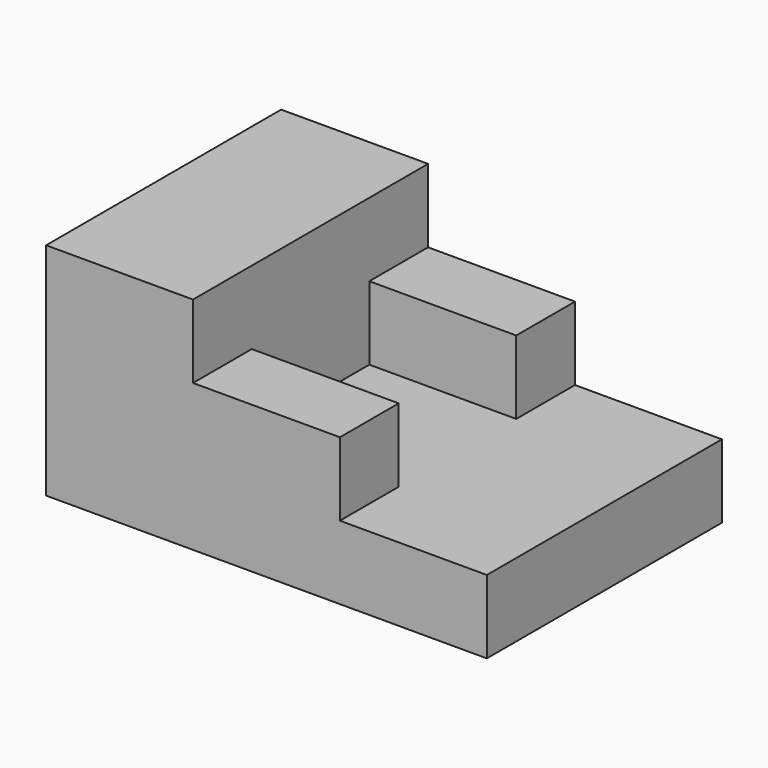
from build123d import *

# Parameters (mm, degrees)
F0_W     = 60
F0_H     = 40
F1_DEPTH = 10
F2_W     = 20
F2_H     = 40
F3_DEPTH = 20
F4_W     = 20
F4_H     = 10
F5_DEPTH = 10
F6_W     = 20
F6_H     = 10
F7_DEPTH = 10


with BuildPart() as f1:
    # F0 (on Top) → F1 (new body)
    with BuildSketch(Plane.XY):
        Rectangle(F0_W, F0_H)
    extrude(amount=F1_DEPTH)

    # F2 (on face) → F3 (join)
    with BuildSketch(Plane.XY.offset(10)):
        with Locations((-20, 0)):
            Rectangle(F2_W, F2_H)
    extrude(amount=F3_DEPTH)

    # F4 (on face) → F5 (join)
    with BuildSketch(Plane.XY.offset(10)):
        with Locations((0, -15)):
            Rectangle(F4_W, F4_H)
    extrude(amount=F5_DEPTH)

    # F6 (on face) → F7 (join)
    with BuildSketch(Plane.XY.offset(10)):
        with Locations((0, 15)):
            Rectangle(F6_W, F6_H)
    extrude(amount=F7_DEPTH)


solid = f1.part
